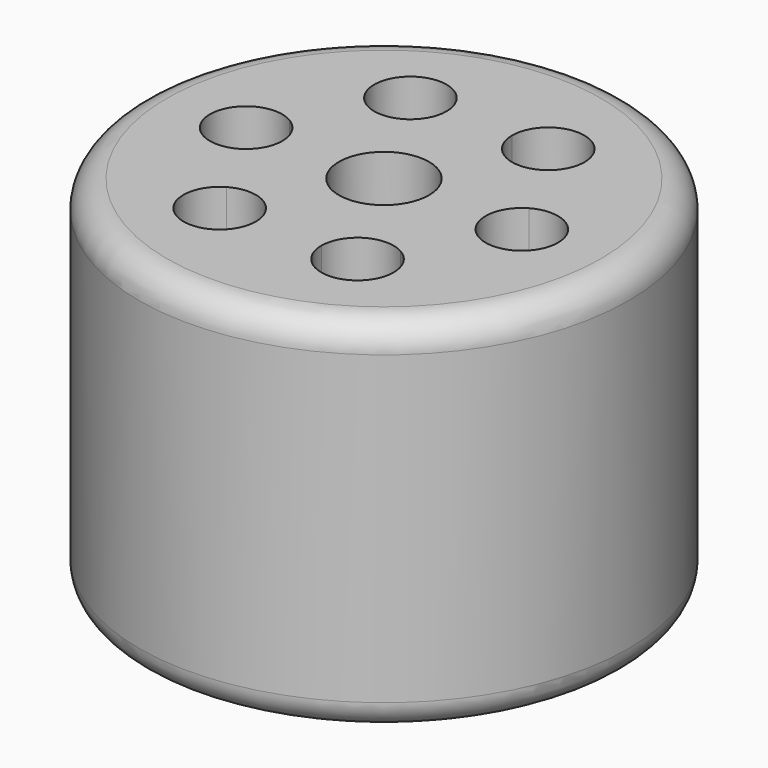
from build123d import *

# Parameters (mm, degrees)
F0_R     = 44
F0_R_2   = 8.1
F1_DEPTH = 15
F2_DEPTH = 50
F3_R     = 5


with BuildPart() as f1:
    # F0 (on Top) → F1 (new body)
    with BuildSketch(Plane.XY):
        Circle(F0_R)
        with BuildLine():
            ThreePointArc((31.2499935607, 0.017853412), (28.0020236485, -5.6101391527), (21.5040550044, -5.6136546355))
            Line((21.5040550044, -5.6136546355), (15.636396845, -15.7936884136))
            ThreePointArc((15.636396845, -15.7936884136), (18.0184508533, -18.1731663733), (18.8904582887, -21.4251964611))
            ThreePointArc((18.8904582887, -21.4251964611), (12.3928026762, -27.9251960383), (5.8904599798, -21.429885236))
            Line((5.8904599798, -21.429885236), (-5.8595369632, -21.4383610982))
            ThreePointArc((-5.8595369632, -21.4383610982), (-5.8595356948, -21.4407054855), (-5.8595352721, -21.4430498731))
            ThreePointArc((-5.8595352721, -21.4430498731), (-15.6075047615, -27.0733868253), (-15.6135950246, -15.8162306005))
            Line((-15.6135950246, -15.8162306005), (-21.4959338081, -5.6446726846))
            ThreePointArc((-21.4959338081, -5.6446726846), (-31.2499918696, -0.0225421868), (-21.5040550044, 5.6136546355))
            Line((-21.5040550044, 5.6136546355), (-15.636396845, 15.7936884136))
            ThreePointArc((-15.636396845, 15.7936884136), (-15.6445180412, 27.0520157337), (-5.8904599798, 21.429885236))
            Line((-5.8904599798, 21.429885236), (5.8595369632, 21.4383610982))
            ThreePointArc((5.8595369632, 21.4383610982), (12.3571908845, 27.9430494503), (18.8595352721, 21.4430498731))
            ThreePointArc((18.8595352721, 21.4430498731), (17.9898722243, 18.1950803837), (15.6135950246, 15.8162306005))
            Line((15.6135950246, 15.8162306005), (21.4959338081, 5.6446726846))
            ThreePointArc((21.4959338081, 5.6446726846), (27.9979630501, 5.6481903642), (31.2499935607, 0.017853412))
        make_face(mode=Mode.SUBTRACT)
        with BuildLine():
            Line((15.636396845, -15.7936884136), (21.5040550044, -5.6136546355))
            ThreePointArc((21.5040550044, -5.6136546355), (18.2499952518, 0.0131646371), (21.4959338081, 5.6446726846))
            Line((21.4959338081, 5.6446726846), (15.6135950246, 15.8162306005))
            ThreePointArc((15.6135950246, 15.8162306005), (9.1135967158, 15.8115418256), (5.8595369632, 21.4383610982))
            Line((5.8595369632, 21.4383610982), (-5.8904599798, 21.429885236))
            ThreePointArc((-5.8904599798, 21.429885236), (-5.8904587114, 21.4275408487), (-5.8904582887, 21.4251964611))
            ThreePointArc((-5.8904582887, 21.4251964611), (-9.1384282009, 15.7972038964), (-15.636396845, 15.7936884136))
            Line((-15.636396845, 15.7936884136), (-21.5040550044, 5.6136546355))
            ThreePointArc((-21.5040550044, 5.6136546355), (-19.1220009961, 3.2341766758), (-18.2499935607, -0.017853412))
            ThreePointArc((-18.2499935607, -0.017853412), (-19.1196566085, -3.2658229014), (-21.4959338081, -5.6446726846))
            Line((-21.4959338081, -5.6446726846), (-15.6135950246, -15.8162306005))
            ThreePointArc((-15.6135950246, -15.8162306005), (-9.1135967158, -15.8115418256), (-5.8595369632, -21.4383610982))
            Line((-5.8595369632, -21.4383610982), (5.8904599798, -21.429885236))
            ThreePointArc((5.8904599798, -21.429885236), (9.1363985361, -15.7983771885), (15.636396845, -15.7936884136))
        make_face()
        Circle(F0_R_2, mode=Mode.SUBTRACT)
    extrude(amount=F1_DEPTH)

    # F0 (on Top) → F2 (join)
    with BuildSketch(Plane.XY):
        Circle(F0_R)
        with BuildLine():
            ThreePointArc((31.2499935607, 0.017853412), (28.0020236485, -5.6101391527), (21.5040550044, -5.6136546355))
            Line((21.5040550044, -5.6136546355), (15.636396845, -15.7936884136))
            ThreePointArc((15.636396845, -15.7936884136), (18.0184508533, -18.1731663733), (18.8904582887, -21.4251964611))
            ThreePointArc((18.8904582887, -21.4251964611), (12.3928026762, -27.9251960383), (5.8904599798, -21.429885236))
            Line((5.8904599798, -21.429885236), (-5.8595369632, -21.4383610982))
            ThreePointArc((-5.8595369632, -21.4383610982), (-5.8595356948, -21.4407054855), (-5.8595352721, -21.4430498731))
            ThreePointArc((-5.8595352721, -21.4430498731), (-15.6075047615, -27.0733868253), (-15.6135950246, -15.8162306005))
            Line((-15.6135950246, -15.8162306005), (-21.4959338081, -5.6446726846))
            ThreePointArc((-21.4959338081, -5.6446726846), (-31.2499918696, -0.0225421868), (-21.5040550044, 5.6136546355))
            Line((-21.5040550044, 5.6136546355), (-15.636396845, 15.7936884136))
            ThreePointArc((-15.636396845, 15.7936884136), (-15.6445180412, 27.0520157337), (-5.8904599798, 21.429885236))
            Line((-5.8904599798, 21.429885236), (5.8595369632, 21.4383610982))
            ThreePointArc((5.8595369632, 21.4383610982), (12.3571908845, 27.9430494503), (18.8595352721, 21.4430498731))
            ThreePointArc((18.8595352721, 21.4430498731), (17.9898722243, 18.1950803837), (15.6135950246, 15.8162306005))
            Line((15.6135950246, 15.8162306005), (21.4959338081, 5.6446726846))
            ThreePointArc((21.4959338081, 5.6446726846), (27.9979630501, 5.6481903642), (31.2499935607, 0.017853412))
        make_face(mode=Mode.SUBTRACT)
        with BuildLine():
            Line((15.636396845, -15.7936884136), (21.5040550044, -5.6136546355))
            ThreePointArc((21.5040550044, -5.6136546355), (18.2499952518, 0.0131646371), (21.4959338081, 5.6446726846))
            Line((21.4959338081, 5.6446726846), (15.6135950246, 15.8162306005))
            ThreePointArc((15.6135950246, 15.8162306005), (9.1135967158, 15.8115418256), (5.8595369632, 21.4383610982))
            Line((5.8595369632, 21.4383610982), (-5.8904599798, 21.429885236))
            ThreePointArc((-5.8904599798, 21.429885236), (-5.8904587114, 21.4275408487), (-5.8904582887, 21.4251964611))
            ThreePointArc((-5.8904582887, 21.4251964611), (-9.1384282009, 15.7972038964), (-15.636396845, 15.7936884136))
            Line((-15.636396845, 15.7936884136), (-21.5040550044, 5.6136546355))
            ThreePointArc((-21.5040550044, 5.6136546355), (-19.1220009961, 3.2341766758), (-18.2499935607, -0.017853412))
            ThreePointArc((-18.2499935607, -0.017853412), (-19.1196566085, -3.2658229014), (-21.4959338081, -5.6446726846))
            Line((-21.4959338081, -5.6446726846), (-15.6135950246, -15.8162306005))
            ThreePointArc((-15.6135950246, -15.8162306005), (-9.1135967158, -15.8115418256), (-5.8595369632, -21.4383610982))
            Line((-5.8595369632, -21.4383610982), (5.8904599798, -21.429885236))
            ThreePointArc((5.8904599798, -21.429885236), (9.1363985361, -15.7983771885), (15.636396845, -15.7936884136))
        make_face()
        Circle(F0_R_2, mode=Mode.SUBTRACT)
        Circle(F0_R_2)
        with BuildLine():
            ThreePointArc((-5.8595352721, -21.4430498731), (-5.8595356948, -21.4407054855), (-5.8595369632, -21.4383610982))
            Line((-5.8595369632, -21.4383610982), (-12.3595352721, -21.4430498731))
            Line((-12.3595352721, -21.4430498731), (-15.6135950246, -15.8162306005))
            ThreePointArc((-15.6135950246, -15.8162306005), (-15.6075047615, -27.0733868253), (-5.8595352721, -21.4430498731))
        make_face()
        with BuildLine():
            ThreePointArc((-21.5040550044, 5.6136546355), (-31.2499918696, -0.0225421868), (-21.4959338081, -5.6446726846))
            Line((-21.4959338081, -5.6446726846), (-24.7499935607, -0.017853412))
            Line((-24.7499935607, -0.017853412), (-21.5040550044, 5.6136546355))
        make_face()
        with BuildLine():
            ThreePointArc((18.8904582887, -21.4251964611), (18.0184508533, -18.1731663733), (15.636396845, -15.7936884136))
            Line((15.636396845, -15.7936884136), (12.3904582887, -21.4251964611))
            Line((12.3904582887, -21.4251964611), (5.8904599798, -21.429885236))
            ThreePointArc((5.8904599798, -21.429885236), (12.3928026762, -27.9251960383), (18.8904582887, -21.4251964611))
        make_face()
        with BuildLine():
            Line((21.4959338081, 5.6446726846), (24.7499935607, 0.017853412))
            Line((24.7499935607, 0.017853412), (21.5040550044, -5.6136546355))
            ThreePointArc((21.5040550044, -5.6136546355), (28.0020236485, -5.6101391527), (31.2499935607, 0.017853412))
            ThreePointArc((31.2499935607, 0.017853412), (27.9979630501, 5.6481903642), (21.4959338081, 5.6446726846))
        make_face()
        with BuildLine():
            Line((12.3595352721, 21.4430498731), (15.6135950246, 15.8162306005))
            ThreePointArc((15.6135950246, 15.8162306005), (17.9898722243, 18.1950803837), (18.8595352721, 21.4430498731))
            ThreePointArc((18.8595352721, 21.4430498731), (12.3571908845, 27.9430494503), (5.8595369632, 21.4383610982))
            Line((5.8595369632, 21.4383610982), (12.3595352721, 21.4430498731))
        make_face()
        with BuildLine():
            Line((-12.3904582887, 21.4251964611), (-5.8904599798, 21.429885236))
            ThreePointArc((-5.8904599798, 21.429885236), (-15.6445180412, 27.0520157337), (-15.636396845, 15.7936884136))
            Line((-15.636396845, 15.7936884136), (-12.3904582887, 21.4251964611))
        make_face()
        with BuildLine():
            Line((-12.3595352721, -21.4430498731), (-5.8595369632, -21.4383610982))
            ThreePointArc((-5.8595369632, -21.4383610982), (-9.1135967158, -15.8115418256), (-15.6135950246, -15.8162306005))
            Line((-15.6135950246, -15.8162306005), (-12.3595352721, -21.4430498731))
        make_face()
        with BuildLine():
            Line((-24.7499935607, -0.017853412), (-21.4959338081, -5.6446726846))
            ThreePointArc((-21.4959338081, -5.6446726846), (-19.1196566085, -3.2658229014), (-18.2499935607, -0.017853412))
            ThreePointArc((-18.2499935607, -0.017853412), (-19.1220009961, 3.2341766758), (-21.5040550044, 5.6136546355))
            Line((-21.5040550044, 5.6136546355), (-24.7499935607, -0.017853412))
        make_face()
        with BuildLine():
            Line((12.3904582887, -21.4251964611), (15.636396845, -15.7936884136))
            ThreePointArc((15.636396845, -15.7936884136), (9.1363985361, -15.7983771885), (5.8904599798, -21.429885236))
            Line((5.8904599798, -21.429885236), (12.3904582887, -21.4251964611))
        make_face()
        with BuildLine():
            Line((21.5040550044, -5.6136546355), (24.7499935607, 0.017853412))
            Line((24.7499935607, 0.017853412), (21.4959338081, 5.6446726846))
            ThreePointArc((21.4959338081, 5.6446726846), (18.2499952518, 0.0131646371), (21.5040550044, -5.6136546355))
        make_face()
        with BuildLine():
            ThreePointArc((-5.8904582887, 21.4251964611), (-5.8904587114, 21.4275408487), (-5.8904599798, 21.429885236))
            Line((-5.8904599798, 21.429885236), (-12.3904582887, 21.4251964611))
            Line((-12.3904582887, 21.4251964611), (-15.636396845, 15.7936884136))
            ThreePointArc((-15.636396845, 15.7936884136), (-9.1384282009, 15.7972038964), (-5.8904582887, 21.4251964611))
        make_face()
        with BuildLine():
            ThreePointArc((5.8595369632, 21.4383610982), (9.1135967158, 15.8115418256), (15.6135950246, 15.8162306005))
            Line((15.6135950246, 15.8162306005), (12.3595352721, 21.4430498731))
            Line((12.3595352721, 21.4430498731), (5.8595369632, 21.4383610982))
        make_face()
    extrude(amount=-F2_DEPTH)

    # F3
    f3_edges = [f1.edges().sort_by_distance(p)[0] for p in [
        (-44, 0, 15),
        (-44, 0, -50),
    ]]
    fillet(f3_edges, radius=F3_R)


solid = f1.part
